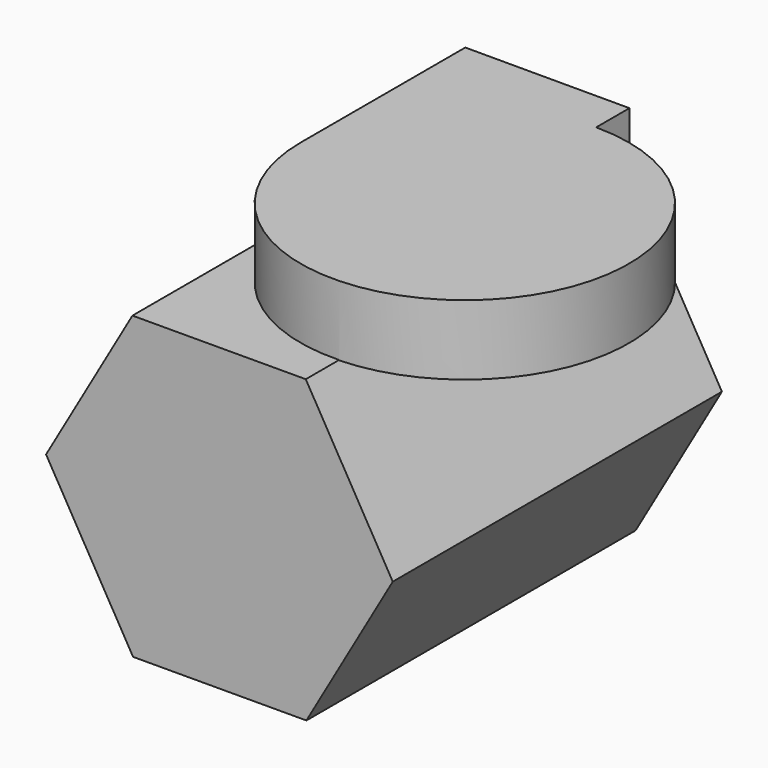
from build123d import *

# Parameters (mm, degrees)
F1_DEPTH = 50.8
F2_W     = 20.2671810985
F2_H     = 8.7723657489
F3_DEPTH = 25.4


with BuildPart() as f1:
    # F0 (on Front) → F1 (new body)
    with BuildSketch(Plane.XZ):
        Polygon((50.4421505383, 28.1019427396), (39.7014406272, 46.614386835), (18.2988387989, 46.5688812451), (7.6369468817, 28.0109315597), (18.3776567927, 9.4984874643), (39.780258621, 9.5439930542), align=None)
    extrude(amount=F1_DEPTH)

    # F2 (on Front) → F3 (join)
    with BuildSketch(Plane.XZ):
        with Locations((28.8883000612, 50.8192069829)):
            Rectangle(F2_W, F2_H)
    extrude(amount=F3_DEPTH)

    # F3_face (on face) → F4 (revolve)
    with BuildSketch(Plane(origin=(28.8798511824, -25.4, 50.8983840717), x_dir=(1, 0, 0), z_dir=(0, -1, 0))):
        Polygon((10.1420394281, 4.3070057856), (-10.1251416704, 4.3070057856), (-10.1251416704, -4.3285335675), (10.1420394281, -4.2854420762), align=None)
    revolve(axis=Axis((39.0218906105, -25.4, 50.9091659264), (0, 0, 1)))


solid = f1.part
